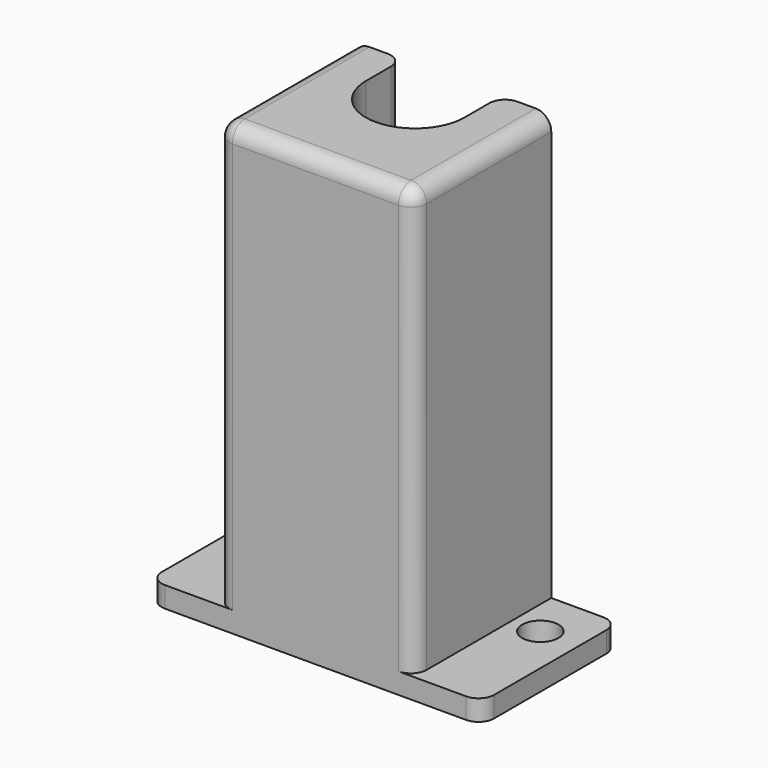
from build123d import *

# Parameters (mm, degrees)
F0_R     = 1.75
F1_DEPTH = 2
F3_DEPTH = 41
F5_DEPTH = 7
F6_R     = 1.5


with BuildPart() as f1:
    # F0 (on Top) → F1 (new body)
    with BuildSketch(Plane.XY):
        Polygon((0, 0), (0, -16.5), (32, -16.5), (32, 0), (24.5, 0), (24.5, -11.5), (7.5, -11.5), (7.5, 0), align=None)
        with Locations((3.75, -4.75)):
            Circle(F0_R, mode=Mode.SUBTRACT)
        with Locations((28.25, -4.75)):
            Circle(F0_R, mode=Mode.SUBTRACT)
    extrude(amount=F1_DEPTH)

    # F2 (on face) → F3 (join)
    with BuildSketch(Plane.XY.offset(2)):
        Polygon((7.5, -11.5), (7.5, 0), (6.5, 0), (6.5, -16.5), (25.5, -16.5), (25.5, 0), (24.5, 0), (24.5, -11.5), align=None)
    extrude(amount=F3_DEPTH)

    # F4 (on face) → F5 (join)
    with BuildSketch(Plane.XY.offset(43)):
        with BuildLine():
            Line((20.75, 0), (20.75, -4.5))
            ThreePointArc((20.75, -4.5), (16, -9.25), (11.25, -4.5))
            Line((11.25, -4.5), (11.25, 0))
            Line((11.25, 0), (7.5, 0))
            Line((7.5, 0), (7.5, -11.5))
            Line((7.5, -11.5), (24.5, -11.5))
            Line((24.5, -11.5), (24.5, 0))
            Line((24.5, 0), (20.75, 0))
        make_face()
    extrude(amount=-F5_DEPTH)

    # F6
    f6_edges = [f1.edges().sort_by_distance(p)[0] for p in [
        (25.5, -8.25, 43),
        (11.25, 0, 39.5),
        (20.75, 0, 39.5),
        (6.5, -8.25, 43),
        (6.5, -16.5, 22.5),
        (16, -16.5, 43),
        (25.5, -16.5, 22.5),
        (32, -16.5, 1),
        (32, 0, 1),
        (0, -16.5, 1),
        (0, 0, 1),
    ]]
    fillet(f6_edges, radius=F6_R)


solid = f1.part
